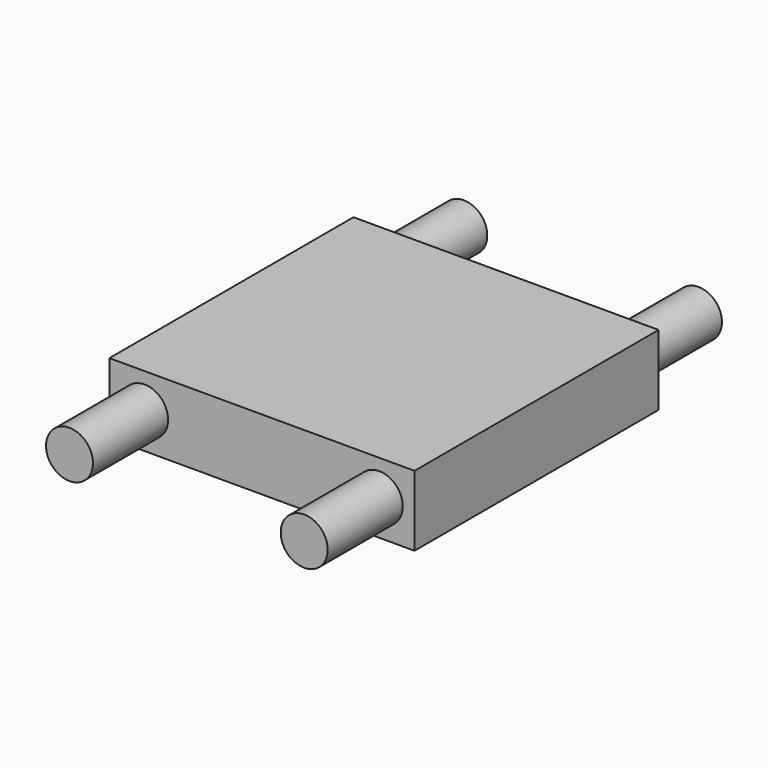
from build123d import *

# Parameters (mm, degrees)
F0_W     = 13
F0_H     = 13
F1_DEPTH = 3
F2_R     = 1
F3_DEPTH = 4
F4_R     = 1
F5_DEPTH = 4


with BuildPart() as f1:
    # F0 (on Top) → F1 (new body)
    with BuildSketch(Plane.XY):
        with Locations((6.5, 6.5)):
            Rectangle(F0_W, F0_H)
    extrude(amount=F1_DEPTH)

    # F2 (on face) → F3 (join)
    with BuildSketch(Plane.XZ):
        with Locations((1.5, 1.5)):
            Circle(F2_R)
        with Locations((11.5, 1.5)):
            Circle(F2_R)
    extrude(amount=F3_DEPTH)

    # F4 (on face) → F5 (join)
    with BuildSketch(Plane(origin=(0, 13, 0), x_dir=(-1, 0, 0), z_dir=(0, 1, 0))):
        with Locations((-11.5, 1.5)):
            Circle(F4_R)
        with Locations((-1.5, 1.5)):
            Circle(F4_R)
    extrude(amount=F5_DEPTH)


solid = f1.part
